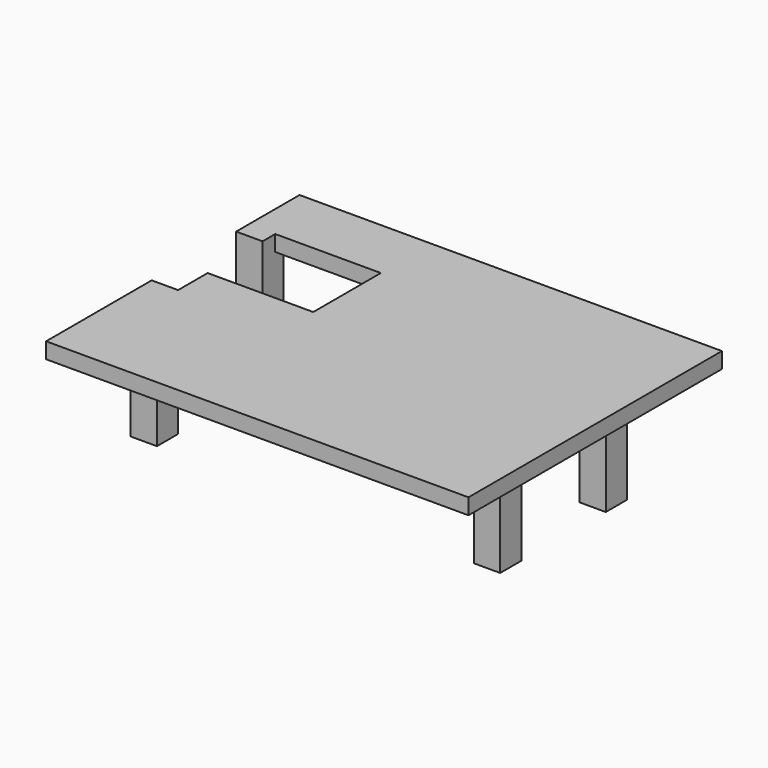
from build123d import *

# Parameters (mm, degrees)
F0_W     = 25
F0_H     = 25
F1_DEPTH = 15
F2_DEPTH = 105
F3_DEPTH = 15


with BuildPart() as f1:
    # F0 (on Top) → F1 (new body)
    with BuildSketch(Plane.XY):
        Polygon((200, 150), (-200, 150), (-200, 100), (-175, 100), (-175, 90), (-160, 90), (-75, 90), (-75, 10), (-160, 10), (-175, 10), (-175, -25), (-175, -50), (-200, -50), (-200, -150), (200, -150), align=None)
        with Locations((137.5, -37.5)):
            Rectangle(F0_W, F0_H, mode=Mode.SUBTRACT)
        with Locations((137.5, 87.5)):
            Rectangle(F0_W, F0_H, mode=Mode.SUBTRACT)
    extrude(amount=F1_DEPTH)

    # F0 (on Top) → F2 (join)
    with BuildSketch(Plane.XY):
        Polygon((-175, 100), (-200, 100), (-200, 75), (-175, 75), (-175, 90), align=None)
        with Locations((-187.5, -37.5)):
            Rectangle(F0_W, F0_H)
        with Locations((137.5, -37.5)):
            Rectangle(F0_W, F0_H)
        with Locations((137.5, 87.5)):
            Rectangle(F0_W, F0_H)
    extrude(amount=-F2_DEPTH)

    # F0 (on Top) → F3 (join)
    with BuildSketch(Plane.XY):
        with Locations((137.5, 87.5)):
            Rectangle(F0_W, F0_H)
        with Locations((137.5, -37.5)):
            Rectangle(F0_W, F0_H)
        with Locations((-187.5, -37.5)):
            Rectangle(F0_W, F0_H)
        Polygon((-175, 100), (-200, 100), (-200, 75), (-175, 75), (-175, 90), align=None)
    extrude(amount=F3_DEPTH)


solid = f1.part
